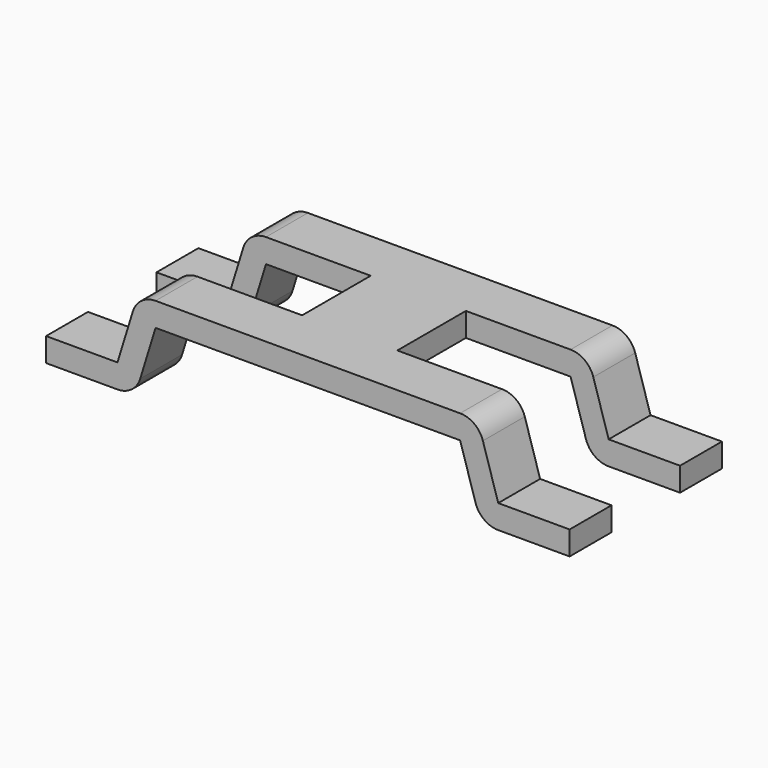
from build123d import *

# Parameters (mm, degrees)
PAD010_DEPTH         = 2
SKETCH017_W          = 5
SKETCH017_H          = 1.8
POCKET002_DEPTH      = 23.716818
POCKET002_DEPTH_BACK = 25.616818


with BuildPart() as part:
    # Sketch018 → Pad010 (new body, symmetric)
    with BuildSketch(Plane.XZ):
        with BuildLine():
            Line((0, 1.9), (3.2, 1.9))
            ThreePointArc((3.677897, 1.547019), (3.497061, 1.802188), (3.2, 1.9))
            Line((4, 0.5), (3.677897, 1.547019))
            Line((4, 0.5), (5.5, 0.5))
            Line((5.5, 0.5), (5.5, 0))
            Line((5.5, 0), (4, 0))
            ThreePointArc((3.522103, 0.352981), (3.702939, 0.097812), (4, 0))
            Line((3.2, 1.4), (3.522103, 0.352981))
            Line((3.2, 1.4), (0, 1.4))
            Line((0, 1.4), (0, 1.9))
        make_face()
    pad010 = extrude(amount=PAD010_DEPTH, both=True)

    # Mirrored002: Pad010 across YZ
    add(pad010.mirror(Plane.YZ))

    # Sketch017 → Pocket002 (cut, two sides)
    with BuildSketch(Plane.XY) as pocket002_sk:
        with Locations((3.5, 0)):
            Rectangle(SKETCH017_W, SKETCH017_H)
    pocket002 = extrude(amount=-POCKET002_DEPTH, mode=Mode.SUBTRACT) + extrude(pocket002_sk.sketch, amount=POCKET002_DEPTH_BACK, mode=Mode.SUBTRACT)

    # Mirrored003: Pocket002 across YZ
    add(pocket002.mirror(Plane.YZ), mode=Mode.SUBTRACT)


with BuildPart() as part_1:
    # Body009 placement: moved
    add(part.part.moved(Location((0, 29.75, 0))))


solid = part_1.part
